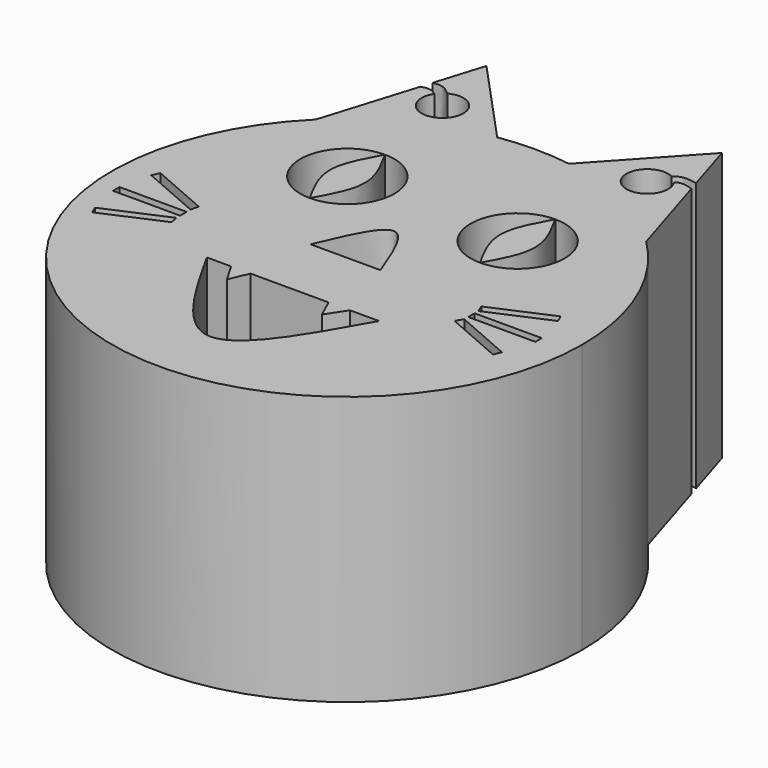
from build123d import *

# Parameters (mm, degrees)
F0_W     = 6.35
F0_H     = 0.7715476677
F0_H_2   = 0.762
F1_DEPTH = 25.4


with BuildPart() as f1:
    # F0 (on Top) → F1 (new body)
    with BuildSketch(Plane.XY):
        with BuildLine():
            ThreePointArc((3.6893544979, 15.3829226228), (10.2928229209, 13.271137937), (15.92431222, 9.2274072279))
            Line((15.92431222, 9.2274072279), (13.2480858126, 17.904334579))
            add(Edge.make_bspline(
                [(11.6048627637, 17.904334579), (11.759038205, 18.0069718661), (12.1326583039, 18.2556972989), (12.8353575143, 18.0343451232), (13.2480858126, 17.904334579)],
                knots=[0, 0, 0, 0, 0.4126529642, 1, 1, 1, 1], degree=3))
            ThreePointArc((11.6048627637, 17.904334579), (11.8599641167, 17.3752399796), (11.947598812, 16.7944319601))
            ThreePointArc((11.947598812, 16.7944319601), (8.3016366544, 15.7643285867), (10.8695058886, 18.5500422494))
            add(Edge.make_bspline(
                [(10.8695058886, 18.5500422494), (11.0812401289, 18.7052749618), (11.5711304706, 19.064437497), (12.455904644, 18.9238167328), (12.9582728554, 18.8439733061)],
                knots=[0, 0, 0, 0, 0.4322074192, 1, 1, 1, 1], degree=3))
            Line((12.9582728554, 18.8439733061), (11.4326283679, 23.7904555412))
            Line((11.4326283679, 23.7904555412), (3.6893544979, 15.3829226228))
        make_face()
        with BuildLine():
            Line((-12.564187943, 18.1494181327), (-15.316005519, 9.2274072279))
            ThreePointArc((-15.316005519, 9.2274072279), (-9.6845162199, 13.271137937), (-3.0810477969, 15.3829226228))
            Line((-3.0810477969, 15.3829226228), (-10.8243216669, 23.7904555412))
            Line((-10.8243216669, 23.7904555412), (-12.2388683659, 19.2041772995))
            add(Edge.make_bspline(
                [(-10.320267483, 18.5500422494), (-10.6450402853, 18.8216017136), (-11.2573678049, 19.3320321307), (-11.9249159549, 19.2452425689), (-12.2388683659, 19.2041772995)],
                knots=[0, 0, 0, 0, 0.5298854267, 1, 1, 1, 1], degree=3))
            ThreePointArc((-10.320267483, 18.5500422494), (-8.3773722381, 18.4989668664), (-7.4203719968, 16.8073400855))
            ThreePointArc((-7.4203719968, 16.8073400855), (-9.9671672086, 14.9188250457), (-11.0345882749, 17.904334579))
            add(Edge.make_bspline(
                [(-11.0345882749, 17.904334579), (-11.2746678219, 18.0659172243), (-11.7533192818, 18.388514969), (-12.2951988679, 18.2285634232), (-12.564187943, 18.1494181327)],
                knots=[0, 0, 0, 0, 0.503481537, 1, 1, 1, 1], degree=3))
        make_face()
        with BuildLine():
            ThreePointArc((-15.316005519, 9.2274072279), (-8.2630105363, -27.0901773082), (22.5291533505, -6.5827560189))
            ThreePointArc((22.5291533505, -6.5827560189), (20.8115746398, 1.9844078679), (15.92431222, 9.2274072279))
            ThreePointArc((15.92431222, 9.2274072279), (10.2928229209, 13.271137937), (3.6893544979, 15.3829226228))
            ThreePointArc((3.6893544979, 15.3829226228), (0.3041533505, 15.6422439811), (-3.0810477969, 15.3829226228))
            ThreePointArc((-3.0810477969, 15.3829226228), (-9.6845162199, 13.271137937), (-15.316005519, 9.2274072279))
        make_face()
        Polygon((-19.2285237709, -11.9529337805), (-13.530993307, -9.4734483975), (-13.3581133165, -10.2292431305), (-18.9244574609, -12.6516380664), align=None, mode=Mode.SUBTRACT)
        with Locations((-16.705993307, -8.6304745637)):
            Rectangle(F0_W, F0_H, mode=Mode.SUBTRACT)
        Polygon((-13.3601024399, -7.0305023596), (-13.5401906446, -7.7831600793), (-19.2285237709, -5.3076818185), (-18.9244579329, -4.6089773272), align=None, mode=Mode.SUBTRACT)
        with BuildLine():
            add(Edge.make_bspline(
                [(8.4544904778, -12.9991904411), (5.7358208401, -17.8578443896), (0.3000622257, -27.57146065), (-5.1112893382, -17.8553828418), (-7.8169170707, -12.9991904411)],
                knots=[0, 0, 0, 0, 0.5001853617, 1, 1, 1, 1], degree=3))
            Line((-7.8169170707, -12.9991904411), (-5.5212693537, -12.9991904411))
            Line((-5.5212693537, -12.9991904411), (-4.4673004436, -14.8217486727))
            Line((-4.4673004436, -14.8217486727), (-3.6882793779, -12.9991904411))
            Line((-3.6882793779, -12.9991904411), (3.6895039243, -12.9991904411))
            Line((3.6895039243, -12.9991904411), (4.5143493203, -14.8217486727))
            Line((4.5143493203, -14.8217486727), (5.7057926183, -12.9991904411))
            Line((5.7057926183, -12.9991904411), (8.4544904778, -12.9991904411))
        make_face(mode=Mode.SUBTRACT)
        Polygon((12.7897234634, -9.5025505871), (13.187948443, -8.8448228342), (18.6601339178, -11.2262412371), (18.3560676078, -11.924945523), align=None, mode=Mode.SUBTRACT)
        with Locations((16.362948443, -8.0066228342)):
            Rectangle(F0_W, F0_H_2, mode=Mode.SUBTRACT)
        Polygon((18.7621455003, -4.7426104207), (13.187948443, -7.1684228342), (12.8917350459, -6.4663010707), (18.4580791904, -4.0439061348), align=None, mode=Mode.SUBTRACT)
        with BuildLine():
            ThreePointArc((-7.8169170707, 8.0406948277), (-4.6738274283, 6.73878447), (-3.3719170707, 3.5956948277))
            ThreePointArc((-3.3719170707, 3.5956948277), (-4.6738274283, 0.4526051853), (-7.8169170707, -0.8493051723))
            ThreePointArc((-7.8169170707, -0.8493051723), (-12.2619170707, 3.5956948277), (-7.8169170707, 8.0406948277))
        make_face(mode=Mode.SUBTRACT)
        with BuildLine():
            Line((3.4461712216, -6.5827560189), (-3.1525917134, -6.5827560189))
            add(Edge.make_bspline(
                [(3.4461712216, -6.5827560189), (2.4213029787, -3.8452513416), (0.3585470951, 1.664533861), (-1.9772977638, -3.8221161168), (-3.1525917134, -6.5827560189)],
                knots=[0, 0, 0, 0, 0.4968441739, 1, 1, 1, 1], degree=3))
        make_face(mode=Mode.SUBTRACT)
        with BuildLine():
            ThreePointArc((8.4544904778, 7.8228717559), (11.5975801201, 6.5209613983), (12.8994904778, 3.3778717559))
            ThreePointArc((12.8994904778, 3.3778717559), (11.5975801201, 0.2347821136), (8.4544904778, -1.0671282441))
            ThreePointArc((8.4544904778, -1.0671282441), (4.0094904778, 3.3778717559), (8.4544904778, 7.8228717559))
        make_face(mode=Mode.SUBTRACT)
    extrude(amount=F1_DEPTH)


with BuildPart() as f1b:
    # F0 (on Top) → F1, piece 2 (new body)
    with BuildSketch(Plane.XY):
        with BuildLine():
            add(Edge.make_bspline(
                [(-7.8169170707, 8.0406948277), (-6.9856051326, 6.559028161), (-5.3229812563, 3.5956948277), (-6.9856051326, 0.6323614943), (-7.8169170707, -0.8493051723)],
                knots=[0, 0, 0, 0, 0.5, 1, 1, 1, 1], degree=3))
            add(Edge.make_bspline(
                [(-7.8169170707, 8.0406948277), (-8.6386170054, 6.559028161), (-10.2820168748, 3.5956948277), (-8.6386170054, 0.6323614943), (-7.8169170707, -0.8493051723)],
                knots=[0, 0, 0, 0, 0.5, 1, 1, 1, 1], degree=3))
        make_face()
    extrude(amount=F1_DEPTH)


with BuildPart() as f1c:
    # F0 (on Top) → F1, piece 3 (new body)
    with BuildSketch(Plane.XY):
        with BuildLine():
            add(Edge.make_bspline(
                [(8.4544904778, 7.8228717559), (9.2783947599, 6.3412050893), (10.9262033242, 3.3778717559), (9.2783947599, 0.4145384226), (8.4544904778, -1.0671282441)],
                knots=[0, 0, 0, 0, 0.5, 1, 1, 1, 1], degree=3))
            add(Edge.make_bspline(
                [(8.4544904778, 7.8228717559), (7.6310723212, 6.3412050893), (5.9842360082, 3.3778717559), (7.6310723212, 0.4145384226), (8.4544904778, -1.0671282441)],
                knots=[0, 0, 0, 0, 0.5, 1, 1, 1, 1], degree=3))
        make_face()
    extrude(amount=F1_DEPTH)


solid = Compound([f1.part, f1b.part, f1c.part])
